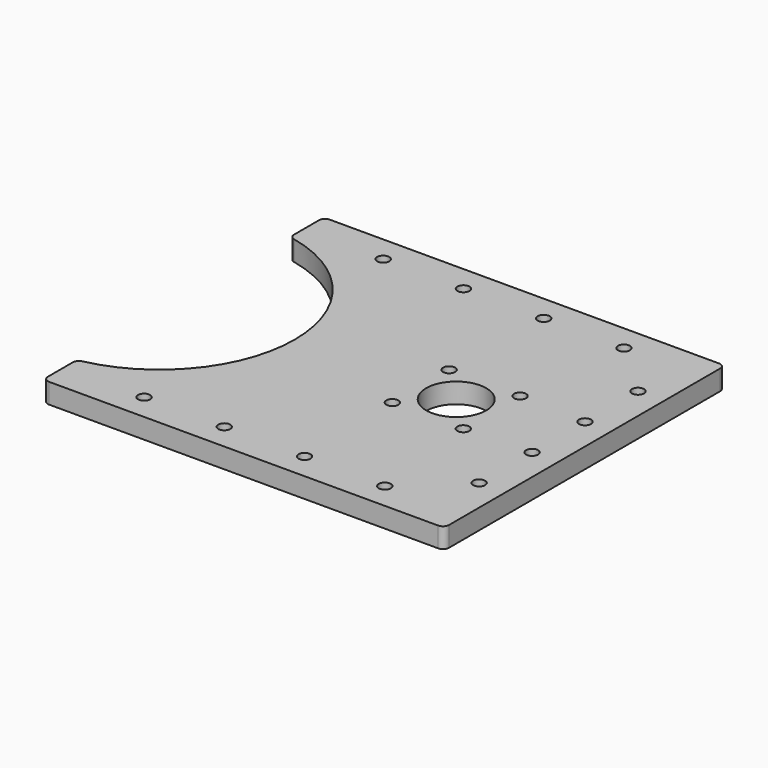
from build123d import *

# Parameters (mm, degrees)
SKETCH_R   = 15
SKETCH_R_2 = 3
PAD_DEPTH  = 10
FILLET_R   = 3


with BuildPart() as part:
    # Sketch → Pad (new body)
    with BuildSketch(Plane.XY):
        with BuildLine():
            Line((0, 12.5), (200, 12.5))
            Line((200, 12.5), (200, 187.5))
            Line((200, 187.5), (0, 187.5))
            Line((0, 187.5), (0, 166.424769))
            ThreePointArc((0, 33.575231), (55.5, 100), (0, 166.424769))
            Line((0, 12.5), (0, 33.575231))
        make_face()
        with Locations((136, 100)):
            Circle(SKETCH_R, mode=Mode.SUBTRACT)
        with Locations((118.32233, 117.67767)):
            Circle(SKETCH_R_2, mode=Mode.SUBTRACT)
        with Locations((153.67767, 117.67767)):
            Circle(SKETCH_R_2, mode=Mode.SUBTRACT)
        with Locations((118.32233, 82.32233)):
            Circle(SKETCH_R_2, mode=Mode.SUBTRACT)
        with Locations((153.67767, 82.32233)):
            Circle(SKETCH_R_2, mode=Mode.SUBTRACT)
        with Locations((40, 25.5)):
            Circle(SKETCH_R_2, mode=Mode.SUBTRACT)
        with Locations((160, 25.5)):
            Circle(SKETCH_R_2, mode=Mode.SUBTRACT)
        with Locations((80, 25.5)):
            Circle(SKETCH_R_2, mode=Mode.SUBTRACT)
        with Locations((120, 25.5)):
            Circle(SKETCH_R_2, mode=Mode.SUBTRACT)
        with Locations((40, 174.5)):
            Circle(SKETCH_R_2, mode=Mode.SUBTRACT)
        with Locations((80, 174.5)):
            Circle(SKETCH_R_2, mode=Mode.SUBTRACT)
        with Locations((120, 174.5)):
            Circle(SKETCH_R_2, mode=Mode.SUBTRACT)
        with Locations((160, 174.5)):
            Circle(SKETCH_R_2, mode=Mode.SUBTRACT)
        with Locations((187, 149.5)):
            Circle(SKETCH_R_2, mode=Mode.SUBTRACT)
        with Locations((187, 116.5)):
            Circle(SKETCH_R_2, mode=Mode.SUBTRACT)
        with Locations((187, 83.5)):
            Circle(SKETCH_R_2, mode=Mode.SUBTRACT)
        with Locations((187, 50.5)):
            Circle(SKETCH_R_2, mode=Mode.SUBTRACT)
    extrude(amount=PAD_DEPTH)

    # Fillet
    fillet_edges = [part.edges().sort_by_distance(p)[0] for p in [
        (0, 12.5, 5),
        (0, 33.575231, 5),
        (0, 166.424769, 5),
        (0, 187.5, 5),
        (200, 12.5, 5),
        (200, 187.5, 5),
    ]]
    fillet(fillet_edges, radius=FILLET_R)


solid = part.part
